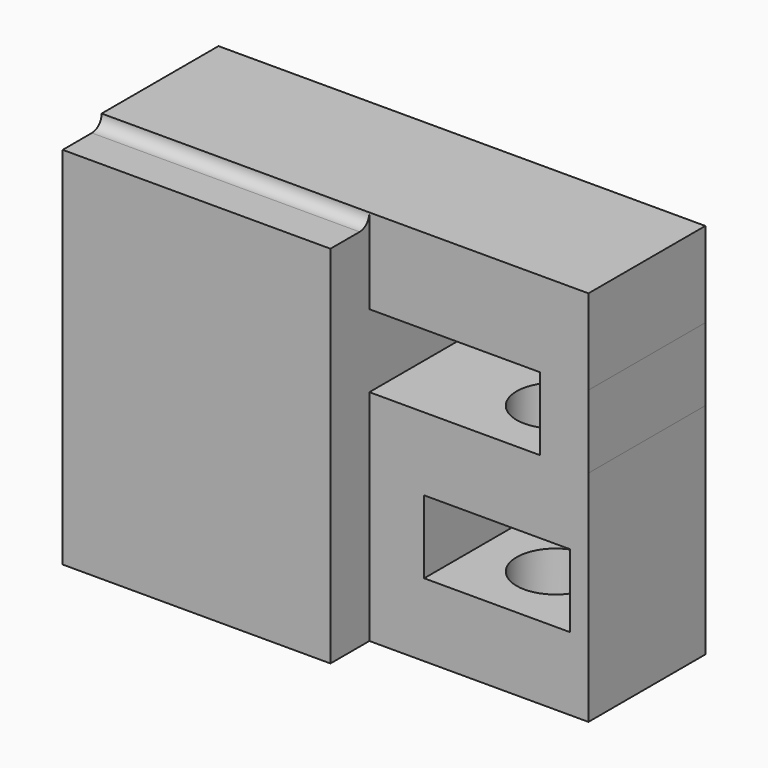
from build123d import *

# Parameters (mm, degrees)
SKETCH_W        = 10
SKETCH_H        = 15.5
PAD_DEPTH       = 20
POCKET001_DEPTH = 20.001
SKETCH003_W     = 3
SKETCH003_H     = 7
SKETCH003_H_2   = 1.990637
POCKET002_DEPTH = 10.001
SKETCH004_W     = 2
SKETCH004_H     = 9
POCKET003_DEPTH = 15.501
SKETCH005_W     = 2
SKETCH005_H     = 9
POCKET004_DEPTH = 15.501
POCKET005_DEPTH = 8
PAD001_DEPTH    = 8
SKETCH010_R     = 1.6
POCKET006_DEPTH = 10
SKETCH013_W     = 2
SKETCH013_H     = 20
POCKET008_DEPTH = 11.001
SKETCH014_W     = 6
SKETCH014_H     = 6
POCKET009_DEPTH = 3
PAD002_DEPTH    = 6


with BuildPart() as framebase:
    # Sketch → Pad (new body)
    with BuildSketch(Plane.YZ):
        with Locations((5, 7.75)):
            Rectangle(SKETCH_W, SKETCH_H)
    extrude(amount=PAD_DEPTH)

    # Sketch002 (on DatumPlane) → Pocket001 (cut, through all)
    with BuildSketch(Plane(origin=(0, 10, 15.5), x_dir=(0, 1, 0), z_dir=(-1, 0, 0))):
        with BuildLine():
            ThreePointArc((0, -0.5), (0.5, 0), (0, 0.5))
            Line((0, 0.5), (-1.5, 0.5))
            ThreePointArc((-1.5, 0.5), (-2, 0), (-1.5, -0.5))
            Line((0, -0.5), (-1.5, -0.5))
        make_face()
    extrude(amount=-POCKET001_DEPTH, mode=Mode.SUBTRACT)

    # Sketch003 (on DatumPlane) → Pocket002 (cut, through all)
    with BuildSketch(Plane(origin=(20, 0, 15.5), x_dir=(0, 0, -1), z_dir=(0, -1, 0))):
        with Locations((5, -5.5)):
            Rectangle(SKETCH003_W, SKETCH003_H)
        with Locations((5, 0.995318)):
            Rectangle(SKETCH003_W, SKETCH003_H_2)
    extrude(amount=-POCKET002_DEPTH, mode=Mode.SUBTRACT)

    # Sketch004 (on DatumPlane) → Pocket003 (cut, through all)
    with BuildSketch(Plane(origin=(20, 0, 15.5), x_dir=(0, -1, 0), z_dir=(0, 0, 1))):
        with Locations((-1, -4.5)):
            Rectangle(SKETCH004_W, SKETCH004_H)
    extrude(amount=-POCKET003_DEPTH, mode=Mode.SUBTRACT)

    # Sketch005 (on DatumPlane) → Pocket004 (cut, through all)
    with BuildSketch(Plane(origin=(20, 10, 15.5), x_dir=(0, -1, 0), z_dir=(0, 0, 1))):
        with Locations((1, -4.5)):
            Rectangle(SKETCH005_W, SKETCH005_H)
    extrude(amount=-POCKET004_DEPTH, mode=Mode.SUBTRACT)

    # Sketch006 (on DatumPlane) → Pocket005 (cut)
    with BuildSketch(Plane(origin=(0, 0, 15.5), x_dir=(0, 0, -1), z_dir=(0, -1, 0))):
        with BuildLine():
            Line((1.5, 0), (3.5, 0))
            Line((3.5, 0), (3.5, 5))
            ThreePointArc((6.5, 8), (4.37868, 7.12132), (3.5, 5))
            Line((6.5, 8), (9, 8))
            ThreePointArc((12, 5), (11.12132, 7.12132), (9, 8))
            Line((12, 5), (12, 0))
            Line((12, 0), (14, 0))
            Line((14, 5), (14, 0))
            ThreePointArc((14, 5), (12.535534, 8.535534), (9, 10))
            Line((6.5, 10), (9, 10))
            ThreePointArc((6.5, 10), (2.964466, 8.535534), (1.5, 5))
            Line((1.5, 5), (1.5, 0))
        make_face()
    extrude(amount=-POCKET005_DEPTH, mode=Mode.SUBTRACT)

    # Sketch008 (on DatumPlane) → Pad001 (join)
    with BuildSketch(Plane(origin=(0, 8, 14), x_dir=(1, 0, 0), z_dir=(0, -1, 0))):
        with BuildLine():
            add(Edge.make_bspline(
                [(0, 0), (0.35359, -0.026741), (0.649381, -0.565336), (0.617792, -0.761919), (0.721021, -0.848783), (0.871627, -0.848783), (1.086099, -0.848783), (1.231939, -0.850694), (1.339653, -0.771577), (1.309148, -0.564354), (1.603926, -0.032231), (2, 0)],
                knots=[0, 0, 0, 0, 0.142857, 0.285714, 0.428571, 0.428571, 0.571429, 0.571429, 0.714286, 0.857143, 1, 1, 1, 1], degree=3))
            add(Edge.make_bspline(
                [(2, 0), (2.35359, -0.026741), (2.649381, -0.565336), (2.617792, -0.761919), (2.721021, -0.848783), (2.871627, -0.848783), (3.086099, -0.848783), (3.231939, -0.850694), (3.339653, -0.771577), (3.309148, -0.564354), (3.603926, -0.032231), (4, 0)],
                knots=[0, 0, 0, 0, 0.142857, 0.285714, 0.428571, 0.428571, 0.571429, 0.571429, 0.714286, 0.857143, 1, 1, 1, 1], degree=3))
            add(Edge.make_bspline(
                [(4, 0), (4.35359, -0.026741), (4.649381, -0.565336), (4.617792, -0.761919), (4.721021, -0.848783), (4.871627, -0.848783), (5.086099, -0.848783), (5.231939, -0.850694), (5.339653, -0.771577), (5.309148, -0.564354), (5.603926, -0.032231), (6, 0)],
                knots=[0, 0, 0, 0, 0.142857, 0.285714, 0.428571, 0.428571, 0.571429, 0.571429, 0.714286, 0.857143, 1, 1, 1, 1], degree=3))
            Line((6, 0), (6, 1))
            Line((6, 1), (0, 1))
            Line((0, 1), (0, 0))
        make_face()
    extrude(amount=PAD001_DEPTH)

    # Sketch010 (on DatumPlane) → Pocket006 (cut)
    with BuildSketch(Plane(origin=(20, 0, 0), x_dir=(0, 1, 0), z_dir=(0, 0, -1))):
        with Locations((5, -3.75)):
            Circle(SKETCH010_R)
    extrude(amount=-POCKET006_DEPTH, mode=Mode.SUBTRACT)

    # Sketch013 (on DatumPlane) → Pocket008 (cut, through all)
    with BuildSketch(Plane(origin=(11, 2, 15.5), x_dir=(0, -1, 0), z_dir=(1, 0, 0))):
        with Locations((1, 10)):
            Rectangle(SKETCH013_W, SKETCH013_H)
    extrude(amount=-POCKET008_DEPTH, mode=Mode.SUBTRACT)

    # Sketch014 (on DatumPlane) → Pocket009 (cut)
    with BuildSketch(Plane(origin=(20, 0, 3), x_dir=(0, 1, 0), z_dir=(0, 0, -1))):
        with Locations((5, -3.75)):
            Rectangle(SKETCH014_W, SKETCH014_H)
    extrude(amount=-POCKET009_DEPTH, mode=Mode.SUBTRACT)

    # Sketch012 (on DatumPlane) → Pad002 (join)
    with BuildSketch(Plane(origin=(0, 8, 1.5), x_dir=(1, 0, 0), z_dir=(0, -1, 0))):
        with BuildLine():
            add(Edge.make_bspline(
                [(0.75, 0), (1.10359, 0.026741), (1.399381, 0.565336), (1.367792, 0.761919), (1.471021, 0.848783), (1.621627, 0.848783), (1.836099, 0.848783), (1.981939, 0.850694), (2.089653, 0.771577), (2.059148, 0.564354), (2.353926, 0.032231), (2.75, 0)],
                knots=[0, 0, 0, 0, 0.142857, 0.285714, 0.428571, 0.428571, 0.571429, 0.571429, 0.714286, 0.857143, 1, 1, 1, 1], degree=3))
            Line((0.75, 0), (0, 0))
            Line((0, 0), (0, -1))
            Line((0, -1), (6.75, -1))
            Line((6.75, -1), (6.75, 0))
            add(Edge.make_bspline(
                [(4.75, 0), (5.10359, 0.026741), (5.399381, 0.565336), (5.367792, 0.761919), (5.471021, 0.848783), (5.621627, 0.848783), (5.836099, 0.848783), (5.981939, 0.850694), (6.089653, 0.771577), (6.059148, 0.564354), (6.353926, 0.032231), (6.75, 0)],
                knots=[0, 0, 0, 0, 0.142857, 0.285714, 0.428571, 0.428571, 0.571429, 0.571429, 0.714286, 0.857143, 1, 1, 1, 1], degree=3))
            add(Edge.make_bspline(
                [(2.75, 0), (3.10359, 0.026741), (3.399381, 0.565336), (3.367792, 0.761919), (3.471021, 0.848783), (3.621627, 0.848783), (3.836099, 0.848783), (3.981939, 0.850694), (4.089653, 0.771577), (4.059148, 0.564354), (4.353926, 0.032231), (4.75, 0)],
                knots=[0, 0, 0, 0, 0.142857, 0.285714, 0.428571, 0.428571, 0.571429, 0.571429, 0.714286, 0.857143, 1, 1, 1, 1], degree=3))
        make_face()
    extrude(amount=PAD002_DEPTH)


with BuildPart() as framebase_front_mirror:
    # Part__Mirroring: instance of FrameBase
    add(framebase.part.mirror(Plane(origin=(0, 0, 0), x_dir=(1, 0, 0), z_dir=(0, 1, 0))))


solid = framebase_front_mirror.part
